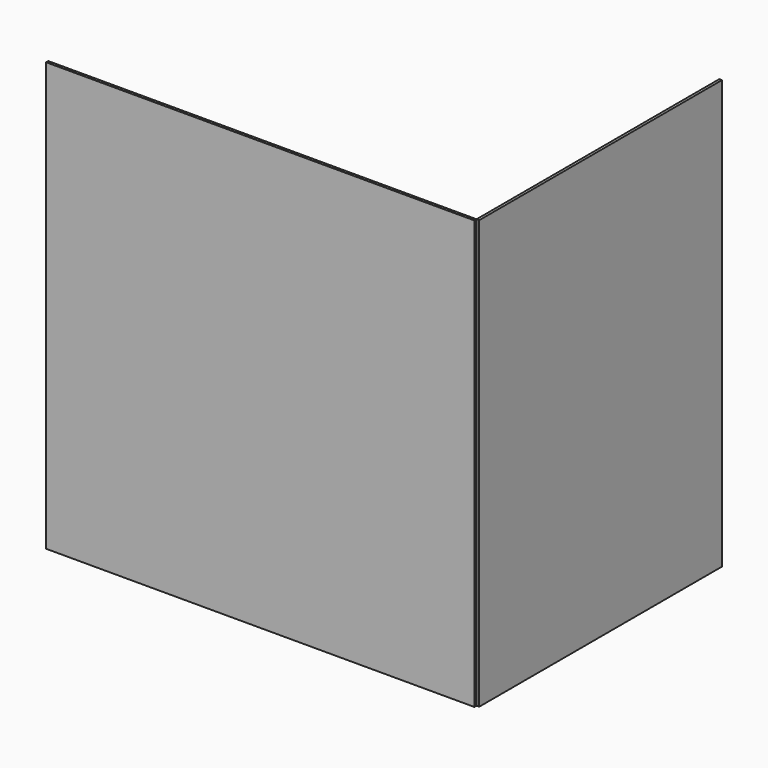
from build123d import *

# Parameters (mm, degrees)
F2_W     = 480
F2_H     = 480
F5_DEPTH = 3
F4_W     = 170
F4_H     = 480
F6_DEPTH = 3


with BuildPart() as f5:
    # F2 (on offset) → F5 (new body)
    with BuildSketch(Plane.XZ.offset(170)):
        Rectangle(F2_W, F2_H)
    extrude(amount=F5_DEPTH)


with BuildPart() as f6:
    # F4 (on offset) → F6 (new body)
    with BuildSketch(Plane.YZ.offset(240)):
        with Locations((85, 0)):
            Rectangle(F4_W, F4_H)
        with Locations((-85, 0)):
            Rectangle(F4_W, F4_H)
    extrude(amount=F6_DEPTH)


solid = Compound([f5.part, f6.part])
